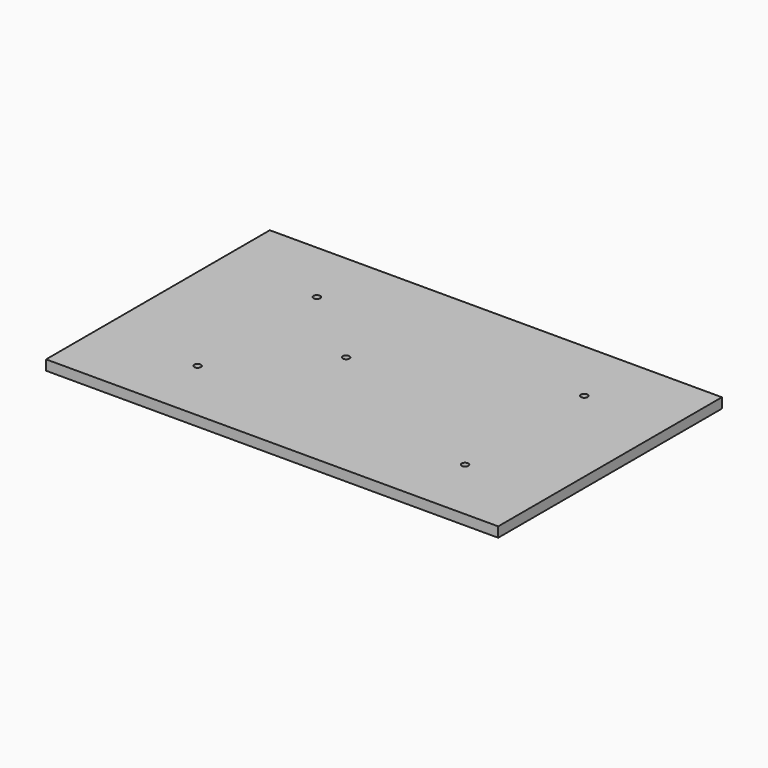
from build123d import *

# Parameters (mm, degrees)
F0_W     = 270
F0_H     = 167
F0_R     = 2
F1_DEPTH = 6


with BuildPart() as f1:
    # F0 (on Top) → F1 (new body)
    with BuildSketch(Plane.XY):
        Rectangle(F0_W, F0_H)
        with Locations((-75.7, -44.5)):
            Circle(F0_R, mode=Mode.SUBTRACT)
        with Locations((84, -44.5)):
            Circle(F0_R, mode=Mode.SUBTRACT)
        with Locations((-27, 5.5)):
            Circle(F0_R, mode=Mode.SUBTRACT)
        with Locations((-75.7, 44.5)):
            Circle(F0_R, mode=Mode.SUBTRACT)
        with Locations((84, 44.5)):
            Circle(F0_R, mode=Mode.SUBTRACT)
    extrude(amount=F1_DEPTH)


solid = f1.part
